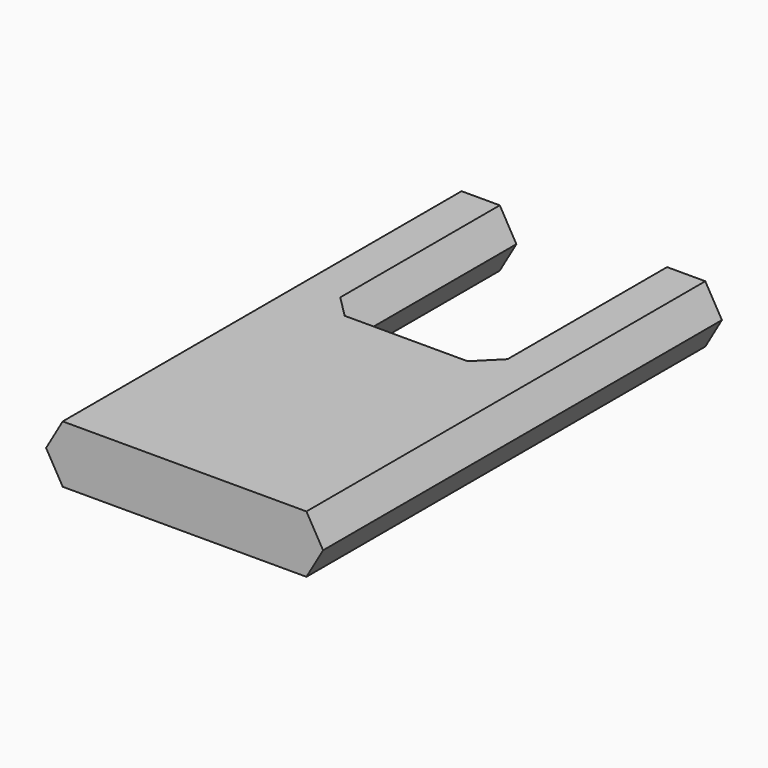
from build123d import *

# Parameters (mm, degrees)
PAD008_DEPTH    = 45
POCKET003_DEPTH = 40
PAD009_DEPTH    = 10.392305


with BuildPart() as part:
    # Sketch013 → Pad008 (new body, symmetric)
    with BuildSketch(Plane.XZ):
        Polygon((-22, 5.196152), (-25, 0), (-22, -5.196152), (22, -5.196152), (25, 0), (22, 5.196152), align=None)
    extrude(amount=PAD008_DEPTH, both=True)

    # Sketch014 (on Face7 of Pad008) → Pocket003 (cut)
    with BuildSketch(Plane(origin=(0, 45, 0), x_dir=(1, 0, 0), z_dir=(0, 1, 0))):
        Polygon((15.1, -5.196152), (12.1, 0), (15.1, 5.196152), (-15.1, 5.196152), (-12.1, 0), (-15.1, -5.196152), align=None)
    extrude(amount=-POCKET003_DEPTH, mode=Mode.SUBTRACT)

    # Sketch015 (on Face1 of Pocket003) → Pad009 (join)
    with BuildSketch(Plane(origin=(0, 0, 5.196152), x_dir=(-1, 0, 0), z_dir=(0, 0, 1))):
        Polygon((-15.1, -5), (-15.1, -9), (-11.1, -5), (11.1, -5), (15.1, -9), (15.1, -5), (0, 0), align=None)
    extrude(amount=-PAD009_DEPTH)


with BuildPart() as part_1:
    # Body004 placement: moved
    add(part.part.moved(Location((0, -70.05, -11.8))))


solid = part_1.part
